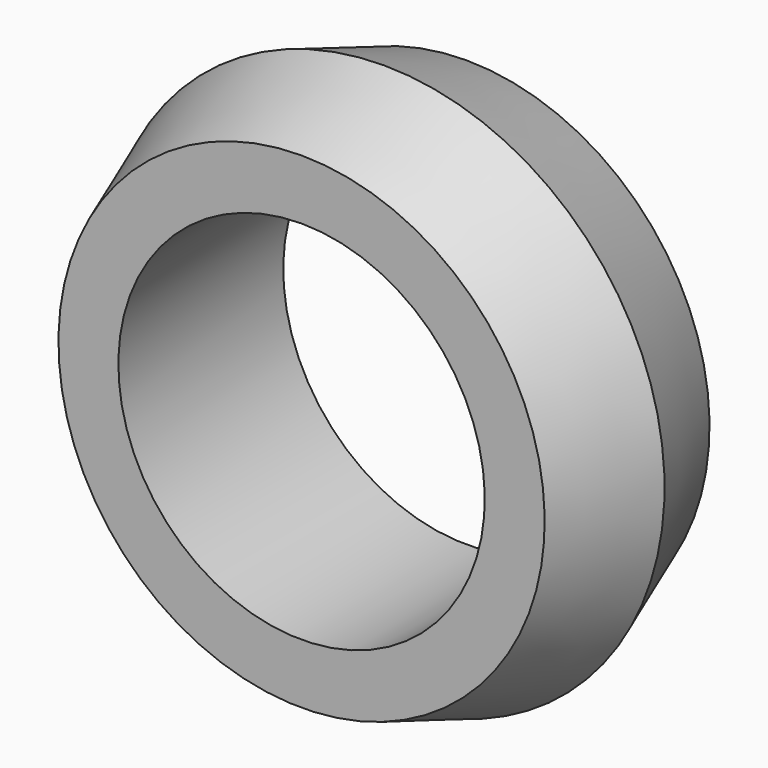
from build123d import *


with BuildPart() as f1:
    # F0 (on Right) → F1 (revolve)
    with BuildSketch(Plane.YZ):
        Polygon((0, 31.85), (0, 24), (27, 24), (27, 31.85), (13.5, 36.75), align=None)
    revolve(axis=Axis((0, 13.5, 0), (0, 1, 0)))


solid = f1.part
